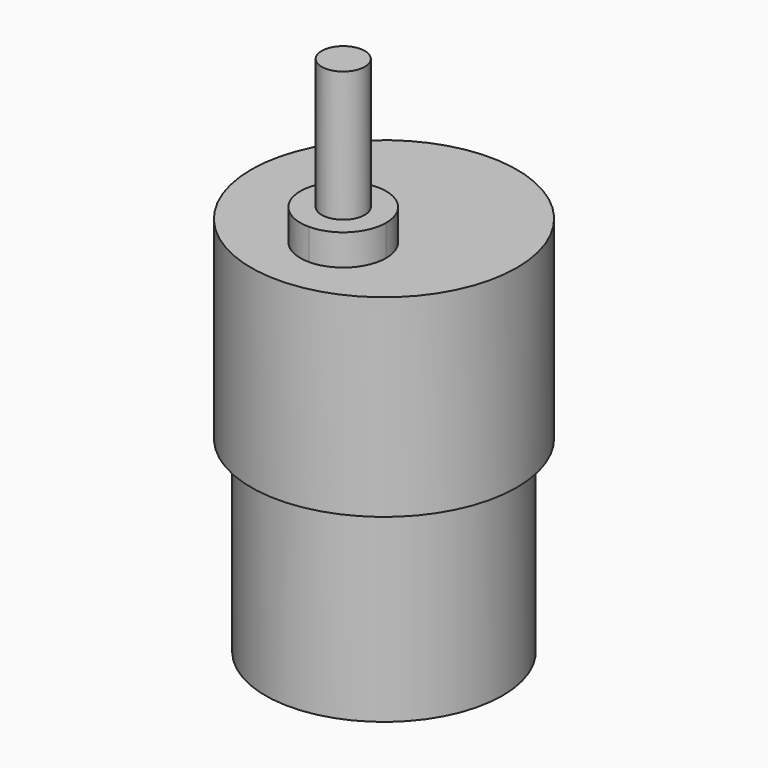
from build123d import *

# Parameters (mm, degrees)
F0_R     = 18.5
F1_DEPTH = 26.924
F2_R     = 16.51
F3_DEPTH = 26.162
F5_DEPTH = 4.318
F6_R     = 3
F7_DEPTH = 18.161


with BuildPart() as f1:
    # F0 (on Top) → F1 (new body)
    with BuildSketch(Plane.XY):
        Circle(F0_R)
    extrude(amount=F1_DEPTH)

    # F2 (on face) → F3 (join)
    with BuildSketch(Plane(origin=(0, 0, 0), x_dir=(1, 0, 0), z_dir=(0, 0, -1))):
        Circle(F2_R)
    extrude(amount=F3_DEPTH)

    # F4 (on face) → F5 (join)
    with BuildSketch(Plane.XY.offset(26.924)):
        with BuildLine():
            ThreePointArc((5.969, -7.0954), (-4.22072, -2.87468), (0, -13.0644))
            ThreePointArc((0, -13.0644), (4.22072, -11.31612), (5.969, -7.0954))
        make_face()
    extrude(amount=F5_DEPTH)

    # F6 (on face) → F7 (join)
    with BuildSketch(Plane.XY.offset(31.242)):
        with Locations((0, -7.0954)):
            Circle(F6_R)
    extrude(amount=F7_DEPTH)


solid = f1.part
